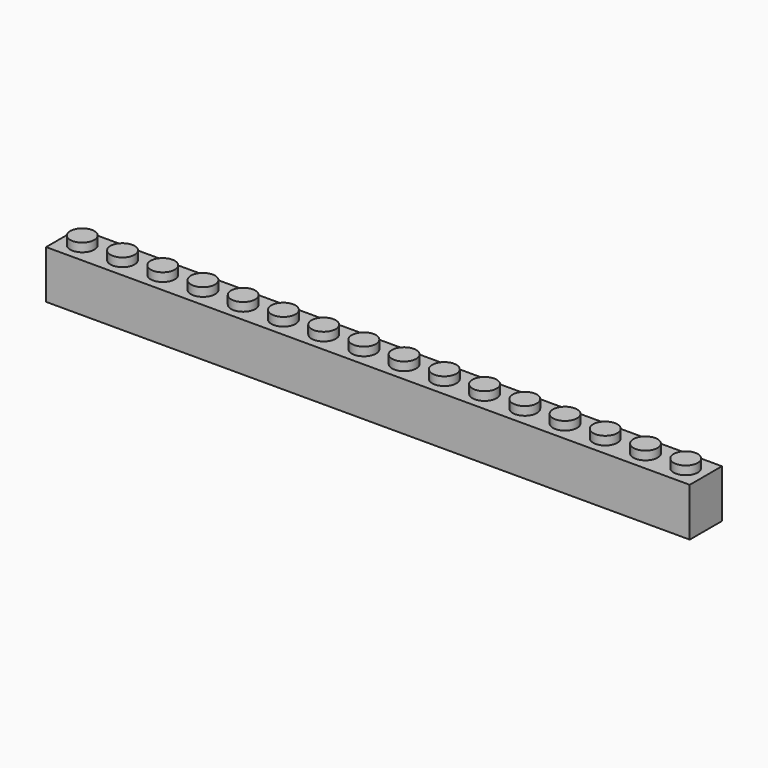
from build123d import *

# Parameters (mm, degrees)
F1_DEPTH = 8
F3_W     = 8
F3_H     = 8
F3_R     = 2.4
F4_DEPTH = 1.7
F5_R     = 2.4
F6_DEPTH = 1.7


with BuildPart() as f1:
    # F0 (on Front) → F1 (new body)
    with BuildSketch(Plane.XZ):
        Polygon((-2.4, 9.6), (-4, 9.6), (-4, 0), (4, 0), (4, 9.6), (2.4, 9.6), (2.4, 11.3), (-2.4, 11.3), align=None)
    extrude(amount=F1_DEPTH)

    # F3 (on plane+point) → F4 (cut, through all)
    with BuildSketch(Plane.XY.offset(11.3)):
        with Locations((0, -4)):
            Rectangle(F3_W, F3_H)
        with Locations((0, -4)):
            Circle(F3_R, mode=Mode.SUBTRACT)
    extrude(amount=-F4_DEPTH, mode=Mode.SUBTRACT)

    # F5 (on Top) → F6 (cut)
    with BuildSketch(Plane.XY):
        with Locations((0, -4)):
            Circle(F5_R)
    extrude(amount=F6_DEPTH, mode=Mode.SUBTRACT)

    # F8: F1 across plane


with BuildPart() as f1_1:
    add(f1.part)
    add(f1.part.mirror(Plane.YZ.offset(4)))

    # F10: F1 across plane


with BuildPart() as f1_2:
    add(f1_1.part)
    add(f1_1.part.mirror(Plane.YZ.offset(12)))

    # F12: F1 across plane


with BuildPart() as f1_3:
    add(f1_2.part)
    add(f1_2.part.mirror(Plane.YZ.offset(28)))

    # F13: F1 across face


with BuildPart() as f1_4:
    add(f1_3.part)
    add(f1_3.part.mirror(Plane(origin=(60, -4, 4.8), x_dir=(0, 1, 0), z_dir=(1, 0, 0))))


solid = f1_4.part
